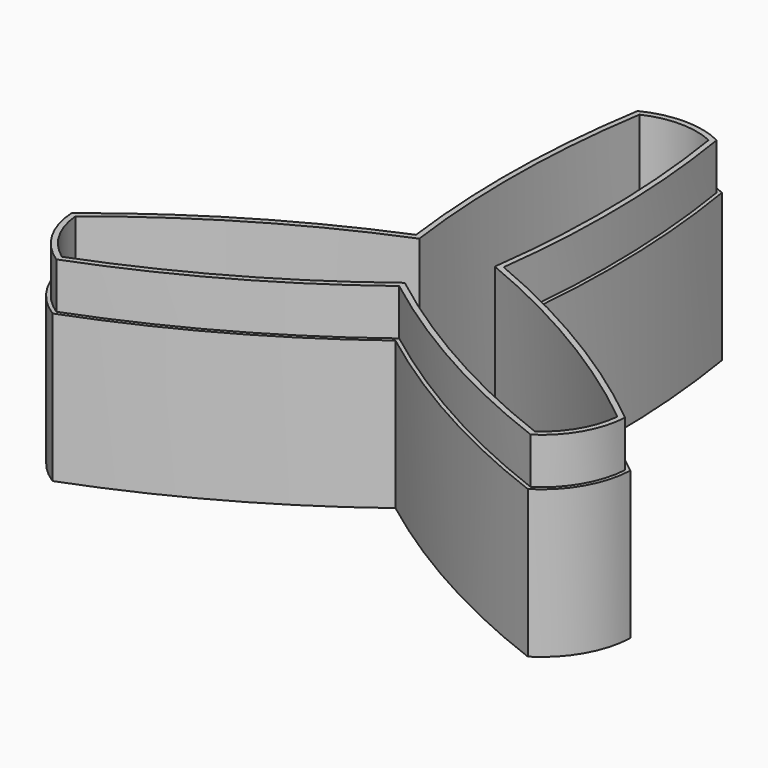
from build123d import *

# Parameters (mm, degrees)
F0_R     = 7.5
F1_DEPTH = 2
F2_DEPTH = 40
F4_DEPTH = 10


with BuildPart() as f1:
    # F0 (on Top) → F1 (new body)
    with BuildSketch(Plane.XY):
        with BuildLine():
            ThreePointArc((60.856366, -24.384369), (36.710284, -7.376819), (10.3731, 5.988912))
            ThreePointArc((10.3731, 5.988912), (11.966629, 35.480448), (9.3107, 64.895344))
            ThreePointArc((9.3107, 64.895344), (0, 67.2), (-9.3107, 64.895344))
            ThreePointArc((-9.3107, 64.895344), (-11.966629, 35.480448), (-10.3731, 5.988912))
            ThreePointArc((-10.3731, 5.988912), (-36.710284, -7.376819), (-60.856366, -24.384369))
            ThreePointArc((-60.856366, -24.384369), (-58.196907, -33.6), (-51.545666, -40.510974))
            ThreePointArc((-51.545666, -40.510974), (-24.743655, -28.103629), (0, -11.977824))
            ThreePointArc((0, -11.977824), (24.743655, -28.103629), (51.545666, -40.510974))
            ThreePointArc((51.545666, -40.510974), (58.196907, -33.6), (60.856366, -24.384369))
        make_face()
        with BuildLine():
            ThreePointArc((-7.5, 63.559028), (0, 65.2), (7.5, 63.559028))
            ThreePointArc((7.5, 63.559028), (9.985947, 34.169463), (8.191847, 4.729565))
            ThreePointArc((8.191847, 4.729565), (34.584597, -8.436648), (58.793733, -25.284323))
            ThreePointArc((58.793733, -25.284323), (56.464856, -32.6), (51.293733, -38.274704))
            ThreePointArc((51.293733, -38.274704), (24.59865, -25.732816), (0, -9.45913))
            ThreePointArc((0, -9.45913), (-24.59865, -25.732816), (-51.293733, -38.274704))
            ThreePointArc((-51.293733, -38.274704), (-56.464856, -32.6), (-58.793733, -25.284323))
            ThreePointArc((-58.793733, -25.284323), (-34.584597, -8.436648), (-8.191847, 4.729565))
            ThreePointArc((-8.191847, 4.729565), (-9.985947, 34.169463), (-7.5, 63.559028))
        make_face(mode=Mode.SUBTRACT)
        with BuildLine():
            ThreePointArc((8.191847, 4.729565), (9.985947, 34.169463), (7.5, 63.559028))
            ThreePointArc((7.5, 63.559028), (0, 65.2), (-7.5, 63.559028))
            ThreePointArc((-7.5, 63.559028), (-9.985947, 34.169463), (-8.191847, 4.729565))
            ThreePointArc((-8.191847, 4.729565), (-34.584597, -8.436648), (-58.793733, -25.284323))
            ThreePointArc((-58.793733, -25.284323), (-56.464856, -32.6), (-51.293733, -38.274704))
            ThreePointArc((-51.293733, -38.274704), (-24.59865, -25.732816), (0, -9.45913))
            ThreePointArc((0, -9.45913), (24.59865, -25.732816), (51.293733, -38.274704))
            ThreePointArc((51.293733, -38.274704), (56.464856, -32.6), (58.793733, -25.284323))
            ThreePointArc((58.793733, -25.284323), (34.584597, -8.436648), (8.191847, 4.729565))
        make_face()
        Circle(F0_R, mode=Mode.SUBTRACT)
        Circle(F0_R)
    extrude(amount=-F1_DEPTH)

    # F0 (on Top) → F2 (join)
    with BuildSketch(Plane.XY):
        with BuildLine():
            ThreePointArc((60.856366, -24.384369), (36.710284, -7.376819), (10.3731, 5.988912))
            ThreePointArc((10.3731, 5.988912), (11.966629, 35.480448), (9.3107, 64.895344))
            ThreePointArc((9.3107, 64.895344), (0, 67.2), (-9.3107, 64.895344))
            ThreePointArc((-9.3107, 64.895344), (-11.966629, 35.480448), (-10.3731, 5.988912))
            ThreePointArc((-10.3731, 5.988912), (-36.710284, -7.376819), (-60.856366, -24.384369))
            ThreePointArc((-60.856366, -24.384369), (-58.196907, -33.6), (-51.545666, -40.510974))
            ThreePointArc((-51.545666, -40.510974), (-24.743655, -28.103629), (0, -11.977824))
            ThreePointArc((0, -11.977824), (24.743655, -28.103629), (51.545666, -40.510974))
            ThreePointArc((51.545666, -40.510974), (58.196907, -33.6), (60.856366, -24.384369))
        make_face()
        with BuildLine():
            ThreePointArc((-7.5, 63.559028), (0, 65.2), (7.5, 63.559028))
            ThreePointArc((7.5, 63.559028), (9.985947, 34.169463), (8.191847, 4.729565))
            ThreePointArc((8.191847, 4.729565), (34.584597, -8.436648), (58.793733, -25.284323))
            ThreePointArc((58.793733, -25.284323), (56.464856, -32.6), (51.293733, -38.274704))
            ThreePointArc((51.293733, -38.274704), (24.59865, -25.732816), (0, -9.45913))
            ThreePointArc((0, -9.45913), (-24.59865, -25.732816), (-51.293733, -38.274704))
            ThreePointArc((-51.293733, -38.274704), (-56.464856, -32.6), (-58.793733, -25.284323))
            ThreePointArc((-58.793733, -25.284323), (-34.584597, -8.436648), (-8.191847, 4.729565))
            ThreePointArc((-8.191847, 4.729565), (-9.985947, 34.169463), (-7.5, 63.559028))
        make_face(mode=Mode.SUBTRACT)
    extrude(amount=F2_DEPTH)

    # F3 (on face) → F4 (cut)
    with BuildSketch(Plane.XY.offset(40)):
        with BuildLine():
            ThreePointArc((-51.545666, -40.510974), (-24.743655, -28.103629), (0, -11.977824))
            ThreePointArc((0, -11.977824), (24.743655, -28.103629), (51.545666, -40.510974))
            ThreePointArc((51.545666, -40.510974), (58.196907, -33.6), (60.856366, -24.384369))
            ThreePointArc((60.856366, -24.384369), (36.710284, -7.376819), (10.3731, 5.988912))
            ThreePointArc((10.3731, 5.988912), (11.966629, 35.480448), (9.3107, 64.895344))
            ThreePointArc((9.3107, 64.895344), (0, 67.2), (-9.3107, 64.895344))
            ThreePointArc((-9.3107, 64.895344), (-11.966629, 35.480448), (-10.3731, 5.988912))
            ThreePointArc((-10.3731, 5.988912), (-36.710284, -7.376819), (-60.856366, -24.384369))
            ThreePointArc((-60.856366, -24.384369), (-58.196907, -33.6), (-51.545666, -40.510974))
        make_face()
        with BuildLine():
            ThreePointArc((51.451933, -39.619813), (24.689038, -27.158291), (0, -10.972078))
            ThreePointArc((0, -10.972078), (-24.689038, -27.158291), (-51.451933, -39.619813))
            ThreePointArc((-51.451933, -39.619813), (-57.504087, -33.2), (-60.037731, -24.748774))
            ThreePointArc((-60.037731, -24.748774), (-35.864289, -7.802188), (-9.502098, 5.486039))
            ThreePointArc((-9.502098, 5.486039), (-11.175251, 34.960479), (-8.585798, 64.368588))
            ThreePointArc((-8.585798, 64.368588), (0, 66.4), (8.585798, 64.368588))
            ThreePointArc((8.585798, 64.368588), (11.175251, 34.960479), (9.502098, 5.486039))
            ThreePointArc((9.502098, 5.486039), (35.864289, -7.802188), (60.037731, -24.748774))
            ThreePointArc((60.037731, -24.748774), (57.504087, -33.2), (51.451933, -39.619813))
        make_face(mode=Mode.SUBTRACT)
    extrude(amount=-F4_DEPTH, mode=Mode.SUBTRACT)


solid = f1.part
